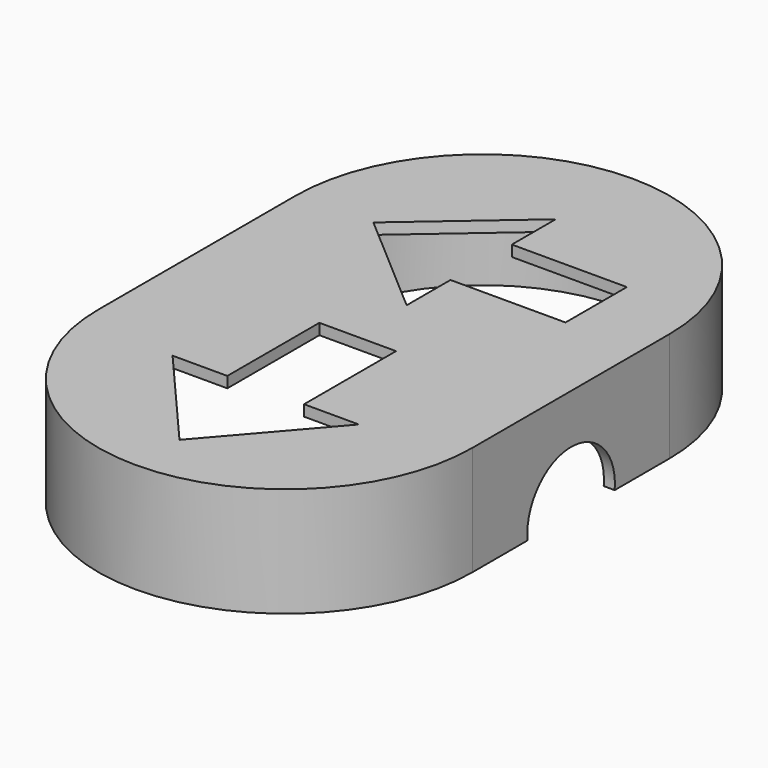
from build123d import *

# Parameters (mm, degrees)
CYLINDER002_R          = 10
CYLINDER002_DEPTH      = 100
BOX001_W               = 2
BOX001_H               = 10
BOX001_DEPTH           = 10
PAD001_DEPTH           = 2
PAD_DEPTH              = 20
CUT001_PLACEMENT_ANGLE = 180


with BuildPart() as cylinder002:
    # Cylinder002 → Cylinder002 (new body)
    with BuildSketch(Plane(origin=(-48, 0, -17), x_dir=(0, 0, -1), z_dir=(1, 0, 0))):
        Circle(CYLINDER002_R)
    extrude(amount=CYLINDER002_DEPTH)


with BuildPart() as cube001:
    # Box001 → Box001 (new body)
    with BuildSketch(Plane(origin=(-1, -63, -13), x_dir=(1, 0, 0), z_dir=(0, 0, 1))):
        with Locations((1, 5)):
            Rectangle(BOX001_W, BOX001_H)
    extrude(amount=BOX001_DEPTH)


with BuildPart() as body001:
    # Sketch001 → Pad001 (new body)
    with BuildSketch(Plane.XY):
        with BuildLine():
            ThreePointArc((32.166162, 22.5), (0, 54.666162), (-32.166162, 22.5))
            Line((-32.166162, 22.5), (-32.166162, -22.5))
            ThreePointArc((-32.166162, -22.5), (0, -54.666162), (32.166162, -22.5))
            Line((32.166162, 22.5), (32.166162, -22.5))
        make_face()
        Polygon((-17, 27), (0, 46.672316), (17, 27), (7, 27), (7, 6), (-7, 6), (-7, 27), align=None, mode=Mode.SUBTRACT)
        Polygon((-20.337316, -16), (-20.337316, -30), (0.662684, -30), (0.662684, -40), (20.335, -23), (0.662684, -6), (0.662684, -16), align=None, mode=Mode.SUBTRACT)
    extrude(amount=PAD001_DEPTH)


with BuildPart() as f_64_trafficlightcasetop:
    # Sketch → Pad (new body)
    with BuildSketch(Plane.XY):
        with BuildLine():
            ThreePointArc((34.15435, 22.5), (0, 56.65435), (-34.15435, 22.5))
            Line((-34.15435, 22.5), (-34.15435, -22.5))
            ThreePointArc((-34.15435, -22.5), (0, -56.65435), (34.15435, -22.5))
            Line((34.15435, 22.5), (34.15435, -22.5))
        make_face()
        with BuildLine():
            ThreePointArc((32.15435, 22.5), (0, 54.65435), (-32.15435, 22.5))
            Line((-32.15435, 22.5), (-32.15435, -22.5))
            ThreePointArc((-32.15435, -22.5), (0, -54.65435), (32.15435, -22.5))
            Line((32.15435, 22.5), (32.15435, -22.5))
        make_face(mode=Mode.SUBTRACT)
    extrude(amount=PAD_DEPTH)


with BuildPart() as f_64_trafficlightcasetop_1:
    # Body placement: moved
    add(f_64_trafficlightcasetop.part.moved(Location((0, 0, -18))))

    # Fusion: union Body001
    add(body001.part)

    # Cut001: cut Cube001
    add(cube001.part, mode=Mode.SUBTRACT)


with BuildPart() as f_64_trafficlightcasetop_2:
    # Cut001 placement: moved
    add(f_64_trafficlightcasetop_1.part.rotate(Axis((0, 0, 0), (0, 0, 1)), CUT001_PLACEMENT_ANGLE))

    # Cut004: cut Cylinder002
    add(cylinder002.part, mode=Mode.SUBTRACT)


solid = f_64_trafficlightcasetop_2.part
